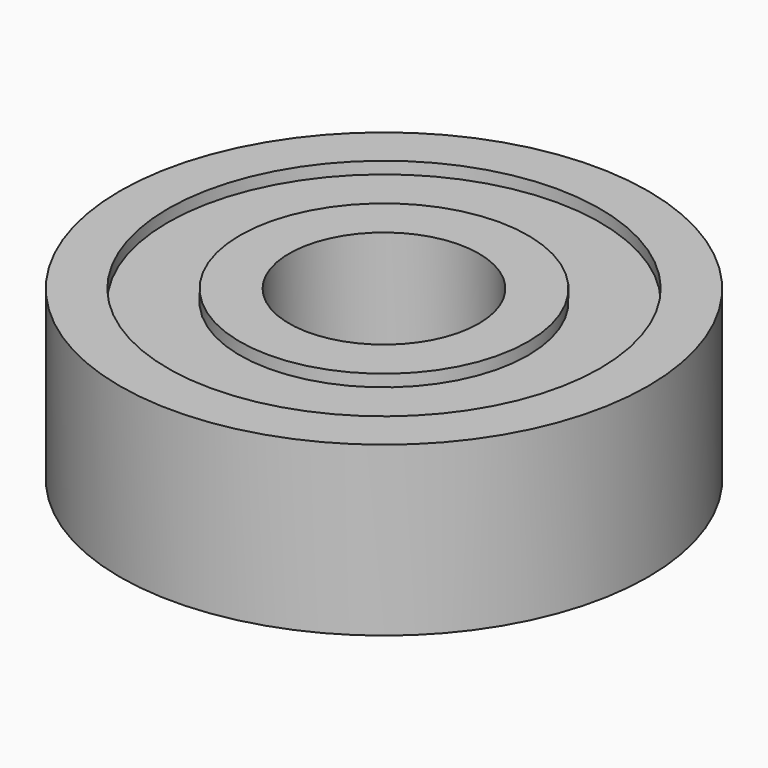
from build123d import *

# Parameters (mm, degrees)
F0_R     = 11
F1_DEPTH = 7
F2_R     = 9
F2_R_2   = 6
F3_DEPTH = 0.5
F4_R     = 3.95
F5_DEPTH = 7.001
F6_R     = 9
F6_R_2   = 6
F7_DEPTH = 0.5


with BuildPart() as f1:
    # F0 (on Top) → F1 (new body)
    with BuildSketch(Plane.XY):
        Circle(F0_R)
    extrude(amount=F1_DEPTH)

    # F2 (on face) → F3 (cut)
    with BuildSketch(Plane.XY.offset(7)):
        Circle(F2_R)
        Circle(F2_R_2, mode=Mode.SUBTRACT)
    extrude(amount=-F3_DEPTH, mode=Mode.SUBTRACT)

    # F4 (on face) → F5 (cut, through all)
    with BuildSketch(Plane.XY.offset(7)):
        Circle(F4_R)
    extrude(amount=-F5_DEPTH, mode=Mode.SUBTRACT)

    # F6 (on face) → F7 (cut)
    with BuildSketch(Plane.XY):
        Circle(F6_R)
        Circle(F6_R_2, mode=Mode.SUBTRACT)
    extrude(amount=F7_DEPTH, mode=Mode.SUBTRACT)


solid = f1.part
